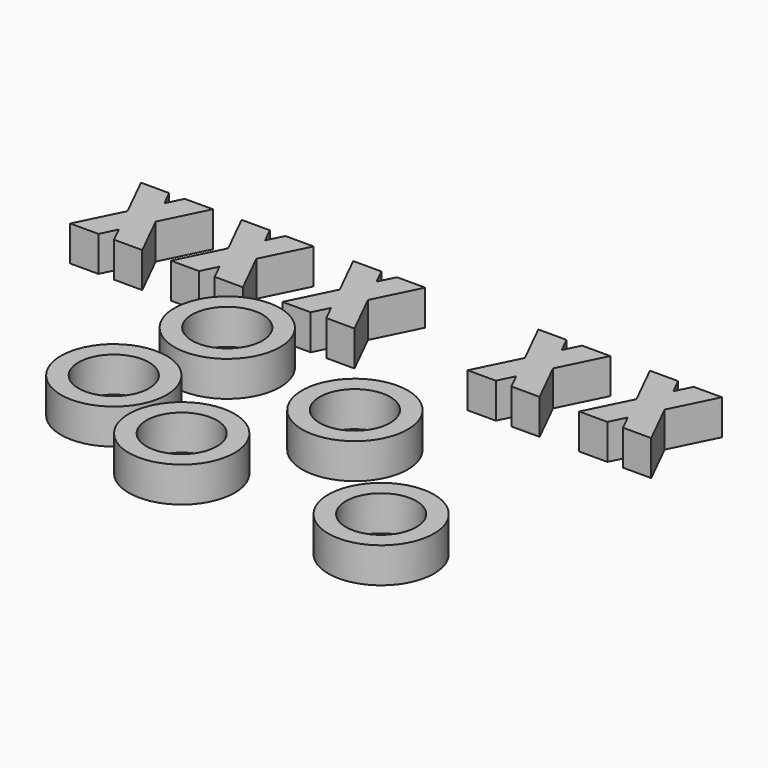
from build123d import *

# Parameters (mm, degrees)
F0_R     = 9.525
F0_R_2   = 6.35
F1_DEPTH = 6.35


with BuildPart() as f1:
    # F0 (on Top) → F1 (new body)
    with BuildSketch(Plane.XY):
        with Locations((-3.7666179448, -29.1648005379)):
            Circle(F0_R)
        with Locations((-3.7666179448, -29.1648005379)):
            Circle(F0_R_2, mode=Mode.SUBTRACT)
    extrude(amount=F1_DEPTH)


with BuildPart() as f1b:
    # F0 (on Top) → F1, piece 2 (new body)
    with BuildSketch(Plane.XY):
        with Locations((-18.8887231052, 0)):
            Circle(F0_R)
        with Locations((-18.8887231052, 0)):
            Circle(F0_R_2, mode=Mode.SUBTRACT)
    extrude(amount=F1_DEPTH)


with BuildPart() as f1c:
    # F0 (on Top) → F1, piece 3 (new body)
    with BuildSketch(Plane.XY):
        with Locations((-22.2717784345, -21.3320404291)):
            Circle(F0_R)
        with Locations((-22.2717784345, -21.3320404291)):
            Circle(F0_R_2, mode=Mode.SUBTRACT)
    extrude(amount=F1_DEPTH)


with BuildPart() as f1d:
    # F0 (on Top) → F1, piece 4 (new body)
    with BuildSketch(Plane.XY):
        with Locations((10.8069814742, -8.3636632189)):
            Circle(F0_R)
        with Locations((10.8069814742, -8.3636632189)):
            Circle(F0_R_2, mode=Mode.SUBTRACT)
    extrude(amount=F1_DEPTH)


with BuildPart() as f1e:
    # F0 (on Top) → F1, piece 5 (new body)
    with BuildSketch(Plane.XY):
        with Locations((33.5152931511, -30.8391787112)):
            Circle(F0_R)
        with Locations((33.5152931511, -30.8391787112)):
            Circle(F0_R_2, mode=Mode.SUBTRACT)
    extrude(amount=F1_DEPTH)


with BuildPart() as f1f:
    # F0 (on Top) → F1, piece 6 (new body)
    with BuildSketch(Plane.XY):
        Polygon((-12.6408703996, 26.9102798775), (-17.7208703996, 26.9102798775), (-13.7737535327, 18.9445803828), (-11.2337535327, 24.0705691486), align=None)
        Polygon((-11.2337535327, 24.0705691486), (-13.7737535327, 18.9445803828), (-11.2337535327, 13.818591617), (-8.6937535327, 18.9445803828), align=None)
        Polygon((-11.2337535327, 13.818591617), (-13.7737535327, 18.9445803828), (-17.7208703996, 10.9788808881), (-12.6408703996, 10.9788808881), align=None)
        Polygon((-9.8266366659, 26.9102798775), (-11.2337535327, 24.0705691486), (-8.6937535327, 18.9445803828), (-4.7466366659, 26.9102798775), (-6.5851830877, 26.9102798775), align=None)
        Polygon((-8.6937535327, 18.9445803828), (-11.2337535327, 13.818591617), (-9.8266366659, 10.9788808881), (-4.7466366659, 10.9788808881), align=None)
    extrude(amount=F1_DEPTH)


with BuildPart() as f1g:
    # F0 (on Top) → F1, piece 7 (new body)
    with BuildSketch(Plane.XY):
        Polygon((-31.3436286444, 13.818591617), (-29.9365117776, 10.9788808881), (-24.8565117776, 10.9788808881), (-28.8036286444, 18.9445803828), align=None)
        Polygon((-32.7507455112, 10.9788808881), (-31.3436286444, 13.818591617), (-33.8836286444, 18.9445803828), (-37.8307455112, 10.9788808881), align=None)
        Polygon((-33.8836286444, 18.9445803828), (-31.3436286444, 13.818591617), (-28.8036286444, 18.9445803828), (-31.3436286444, 24.0705691486), align=None)
        Polygon((-37.8307455112, 26.9102798775), (-33.8836286444, 18.9445803828), (-31.3436286444, 24.0705691486), (-32.7507455112, 26.9102798775), align=None)
        Polygon((-31.3436286444, 24.0705691486), (-28.8036286444, 18.9445803828), (-24.8565117776, 26.9102798775), (-29.9365117776, 26.9102798775), align=None)
    extrude(amount=F1_DEPTH)


with BuildPart() as f1h:
    # F0 (on Top) → F1, piece 8 (new body)
    with BuildSketch(Plane.XY):
        Polygon((48.720662192, 26.9102798775), (43.640662192, 26.9102798775), (42.2335453251, 24.0705691486), (44.7735453251, 18.9445803828), align=None)
        Polygon((44.7735453251, 18.9445803828), (42.2335453251, 24.0705691486), (39.6935453251, 18.9445803828), (42.2335453251, 13.818591617), align=None)
        Polygon((39.6935453251, 18.9445803828), (42.2335453251, 24.0705691486), (40.8264284583, 26.9102798775), (35.7464284583, 26.9102798775), align=None)
        Polygon((42.2335453251, 13.818591617), (39.6935453251, 18.9445803828), (35.7464284583, 10.9788808881), (40.8264284583, 10.9788808881), align=None)
        Polygon((48.720662192, 10.9788808881), (44.7735453251, 18.9445803828), (42.2335453251, 13.818591617), (43.640662192, 10.9788808881), align=None)
    extrude(amount=F1_DEPTH)


with BuildPart() as f1i:
    # F0 (on Top) → F1, piece 9 (new body)
    with BuildSketch(Plane.XY):
        Polygon((24.6636702135, 18.9445803828), (28.6107870803, 26.9102798775), (23.5307870803, 26.9102798775), (22.1236702135, 24.0705691486), align=None)
        Polygon((22.1236702135, 13.818591617), (24.6636702135, 18.9445803828), (22.1236702135, 24.0705691486), (19.5836702135, 18.9445803828), align=None)
        Polygon((28.6107870803, 10.9788808881), (24.6636702135, 18.9445803828), (22.1236702135, 13.818591617), (23.5307870803, 10.9788808881), align=None)
        Polygon((19.5836702135, 18.9445803828), (22.1236702135, 24.0705691486), (20.7165533467, 26.9102798775), (15.6365533467, 26.9102798775), align=None)
        Polygon((20.7165533467, 10.9788808881), (22.1236702135, 13.818591617), (19.5836702135, 18.9445803828), (15.6365533467, 10.9788808881), align=None)
    extrude(amount=F1_DEPTH)


with BuildPart() as f1j:
    # F0 (on Top) → F1, piece 10 (new body)
    with BuildSketch(Plane.XY):
        Polygon((-52.0171459991, 18.9445803828), (-55.9642628659, 10.9788808881), (-50.8842628659, 10.9788808881), (-49.4771459991, 13.818591617), align=None)
        Polygon((-49.4771459991, 24.0705691486), (-52.0171459991, 18.9445803828), (-49.4771459991, 13.818591617), (-46.9371459991, 18.9445803828), align=None)
        Polygon((-55.9642628659, 26.9102798775), (-52.0171459991, 18.9445803828), (-49.4771459991, 24.0705691486), (-50.8842628659, 26.9102798775), align=None)
        Polygon((-46.9371459991, 18.9445803828), (-49.4771459991, 13.818591617), (-48.0700291323, 10.9788808881), (-42.9900291323, 10.9788808881), align=None)
        Polygon((-48.0700291323, 26.9102798775), (-49.4771459991, 24.0705691486), (-46.9371459991, 18.9445803828), (-42.9900291323, 26.9102798775), align=None)
    extrude(amount=F1_DEPTH)


solid = Compound([f1.part, f1b.part, f1c.part, f1d.part, f1e.part, f1f.part, f1g.part, f1h.part, f1i.part, f1j.part])
